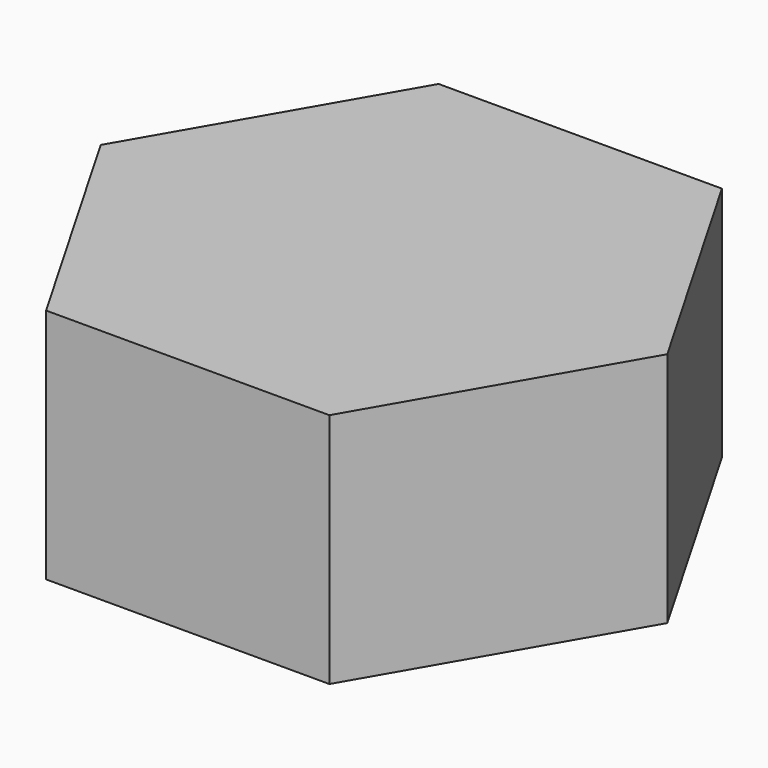
from build123d import *

# Parameters (mm, degrees)
EXTRUDE_DEPTH = 3.2


with BuildPart() as part:
    # Sketch → Extrude (new body)
    with BuildSketch(Plane.XY):
        Polygon((-3.83, 0), (-1.915, -3.316877), (1.915, -3.316877), (3.83, 0), (1.915, 3.316877), (-1.915, 3.316877), align=None)
    extrude(amount=EXTRUDE_DEPTH)


solid = part.part
